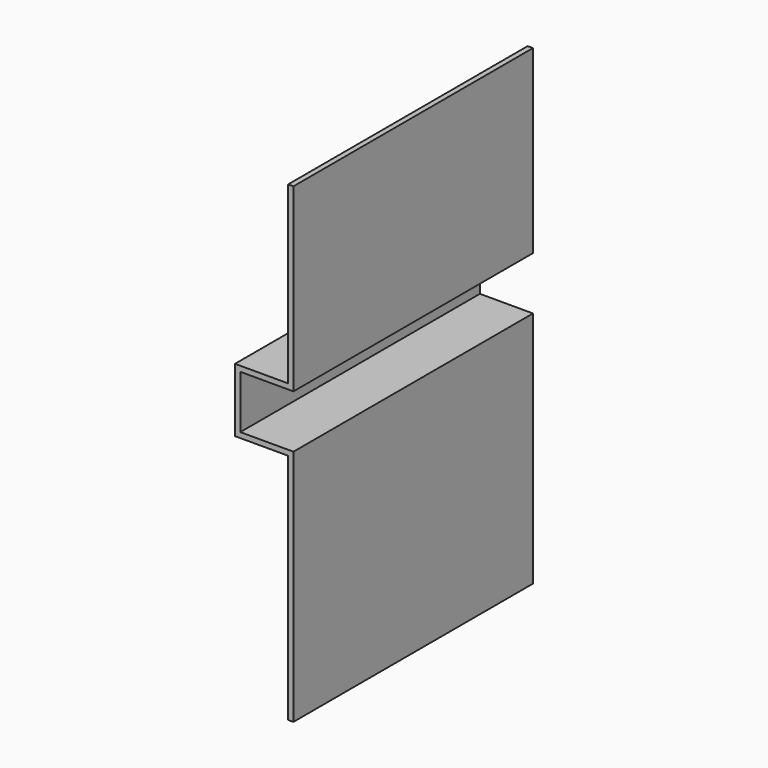
from build123d import *

# Parameters (mm, degrees)
F0_W     = 2.54
F0_H     = 225.552
F1_DEPTH = 143.256
F2_W     = 25.4
F2_H     = 30.48
F3_DEPTH = 143.256
F4_W     = 25.4
F4_H     = 25.4
F5_DEPTH = 177.8


with BuildPart() as f1:
    # F0 (on Front) → F1 (new body)
    with BuildSketch(Plane.XZ):
        with Locations((-19.223887, 91.398376)):
            Rectangle(F0_W, F0_H)
    extrude(amount=F1_DEPTH)

    # F2 (on face) → F3 (join)
    with BuildSketch(Plane.XZ.offset(143.256)):
        with Locations((-33.193887, 105.114376)):
            Rectangle(F2_W, F2_H)
    extrude(amount=-F3_DEPTH)

    # F4 (on face) → F5 (cut)
    with BuildSketch(Plane.XZ.offset(143.256)):
        with Locations((-30.653887, 105.114376)):
            Rectangle(F4_W, F4_H)
    extrude(amount=-F5_DEPTH, mode=Mode.SUBTRACT)


solid = f1.part
